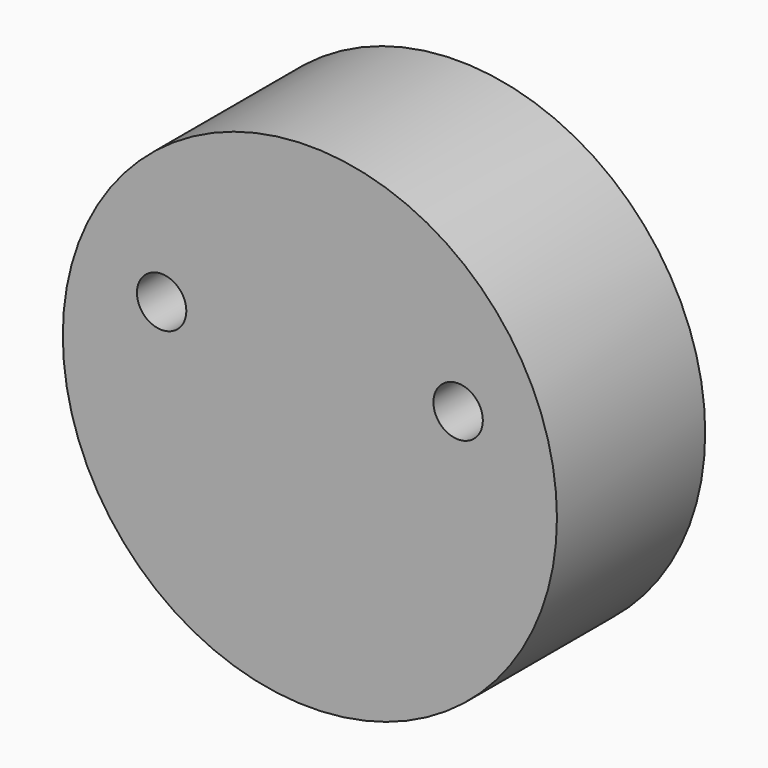
from build123d import *

# Parameters (mm, degrees)
F0_R     = 20
F0_R_2   = 2
F1_DEPTH = 15


with BuildPart() as f1:
    # F0 (on Front) → F1 (new body)
    with BuildSketch(Plane.XZ):
        Circle(F0_R)
        with Locations((-12, 5)):
            Circle(F0_R_2, mode=Mode.SUBTRACT)
        with Locations((12, 5)):
            Circle(F0_R_2, mode=Mode.SUBTRACT)
    extrude(amount=F1_DEPTH)


solid = f1.part
